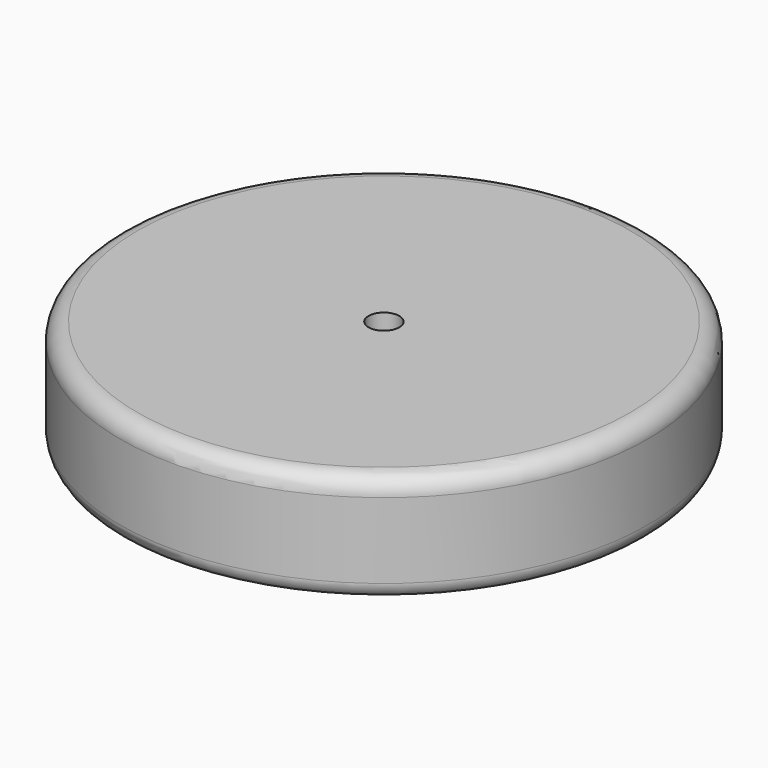
from build123d import *

# Parameters (mm, degrees)
F3_DEPTH = 22
F4_COUNT = 6


with BuildPart() as f1:
    # F0 (on Front) → F1 (revolve)
    with BuildSketch(Plane.XZ):
        with BuildLine():
            Line((-3.5, 12), (-56, 12))
            ThreePointArc((-56, 12), (-58.8284271247, 10.8284271247), (-60, 8))
            Line((-60, 8), (-60, -9.1715728753))
            ThreePointArc((-60, -9.1715728753), (-59.69551813, -10.7023066047), (-58.8284271247, -12))
            Line((-58.8284271247, -12), (-56, -12))
            Line((-56, -12), (-57.4142135624, -10.5857864376))
            ThreePointArc((-57.4142135624, -10.5857864376), (-57.847759065, -9.93693974), (-58, -9.1715728753))
            Line((-58, -9.1715728753), (-58, 8))
            ThreePointArc((-58, 8), (-57.4142135624, 9.4142135624), (-56, 10))
            Line((-56, 10), (-5.5, 10))
            Line((-5.5, 10), (-5.5, -12))
            Line((-5.5, -12), (-3.5, -12))
            Line((-3.5, -12), (-3.5, 12))
        make_face()
    revolve(axis=Axis((0, 0, 0), (0, 0, 1)))

    # F2 (on face) → F3 (join, through all)
    with BuildSketch(Plane(origin=(0, 0, 10), x_dir=(1, 0, 0), z_dir=(0, 0, -1))):
        with BuildLine():
            ThreePointArc((1, -55.9910707167), (0, -56), (-1, -55.9910707167))
            Line((-1, -55.9910707167), (-1, -57.9913786696))
            ThreePointArc((-1, -57.9913786696), (0, -58), (1, -57.9913786696))
            Line((1, -57.9913786696), (1, -55.9910707167))
        make_face()
        with BuildLine():
            ThreePointArc((1, -5.4083269132), (0, -5.5), (-1, -5.4083269132))
            Line((-1, -5.4083269132), (-1, -55.9910707167))
            ThreePointArc((-1, -55.9910707167), (0, -56), (1, -55.9910707167))
            Line((1, -55.9910707167), (1, -5.4083269132))
        make_face()
    extrude(amount=F3_DEPTH)

    # F4: F1 ×6 about axis
    f4_axis = Axis((0, 0, 0), (0, 0, 1))


with BuildPart() as f1_1:
    add(f1.part)
    for i in range(1, F4_COUNT):
        add(f1.part.rotate(f4_axis, i * 360 / F4_COUNT))


solid = f1_1.part
